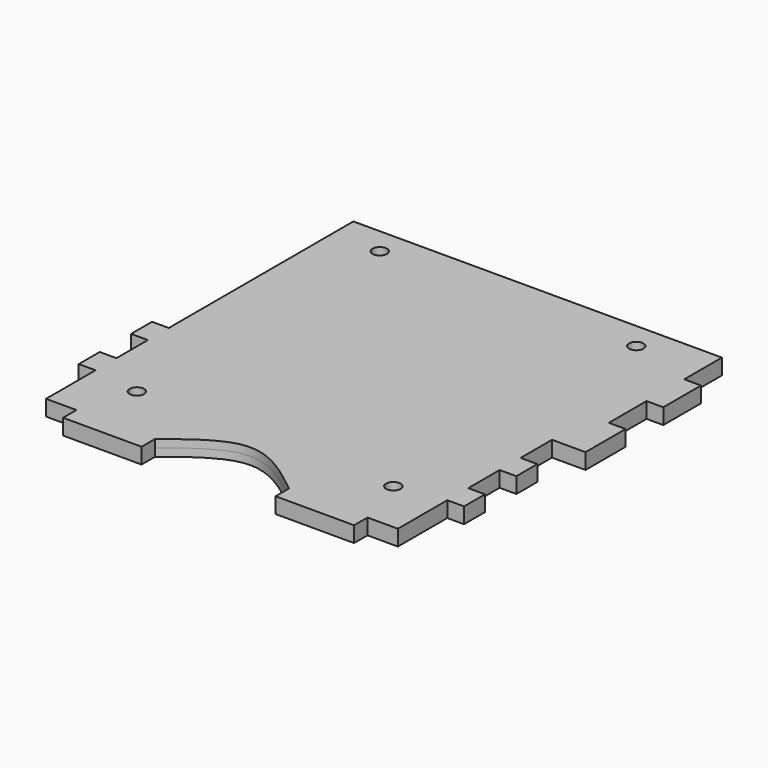
from build123d import *

# Parameters (mm, degrees)
F0_R     = 1.375
F1_DEPTH = 1.5


with BuildPart() as f1:
    # F0 (on Top) → F1 (new body, symmetric)
    with BuildSketch(Plane.XY):
        with BuildLine():
            Line((33.6, 34.073957), (27.8, 34.073957))
            Line((27.8, 34.073957), (-27.8, 34.073957))
            Line((-27.8, 34.073957), (-33.6, 34.073957))
            Line((-33.6, 34.073957), (-33.6, -10))
            Line((-33.6, -10), (-36.8, -10))
            Line((-36.8, -10), (-36.8, -15))
            Line((-36.8, -15), (-33.6, -15))
            Line((-33.6, -15), (-33.6, -22.5))
            Line((-33.6, -22.5), (-36.8, -22.5))
            Line((-36.8, -22.5), (-36.8, -27.5))
            Line((-36.8, -27.5), (-33.6, -27.5))
            Line((-33.6, -27.5), (-33.6, -39.3))
            Line((-33.6, -39.3), (-27.8, -39.3))
            Line((-27.8, -39.3), (-27.8, -42.5))
            Line((-27.8, -42.5), (-12.8, -42.5))
            Line((-12.8, -42.5), (-12.8, -39.3))
            add(Edge.make_bspline(
                [(-12.8, -39.3), (-8.533333, -35.9), (0, -29.1), (8.533333, -35.9), (12.8, -39.3)],
                knots=[0, 0, 0, 0, 14.494137, 28.988273, 28.988273, 28.988273, 28.988273], degree=3))
            Line((12.8, -39.3), (12.8, -42.5))
            Line((12.8, -42.5), (27.8, -42.5))
            Line((27.8, -42.5), (27.8, -39.3))
            Line((27.8, -39.3), (33.6, -39.3))
            Line((33.6, -39.3), (33.6, -27.5))
            Line((33.6, -27.5), (36.8, -27.5))
            Line((36.8, -27.5), (36.8, -22.5))
            Line((36.8, -22.5), (33.6, -22.5))
            Line((33.6, -22.5), (33.6, -15))
            Line((33.6, -15), (36.8, -15))
            Line((36.8, -15), (36.8, -10))
            Line((36.8, -10), (33.6, -10))
            Line((33.6, -10), (33.6, -2.5))
            Line((33.6, -2.5), (36.8, -2.5))
            Line((36.8, -2.5), (40, -2.5))
            Line((40, -2.5), (40, 7.073957))
            Line((40, 7.073957), (36.8, 7.073957))
            Line((36.8, 7.073957), (36.8, 16.073957))
            Line((36.8, 16.073957), (40, 16.073957))
            Line((40, 16.073957), (40, 25.073957))
            Line((40, 25.073957), (36.8, 25.073957))
            Line((36.8, 25.073957), (36.8, 34.073957))
            Line((36.8, 34.073957), (33.6, 34.073957))
        make_face()
        with Locations((-24.5, -29)):
            Circle(F0_R, mode=Mode.SUBTRACT)
        with Locations((24.5, -29)):
            Circle(F0_R, mode=Mode.SUBTRACT)
        with Locations((-24.5, 29)):
            Circle(F0_R, mode=Mode.SUBTRACT)
        with Locations((24.5, 29)):
            Circle(F0_R, mode=Mode.SUBTRACT)
    extrude(amount=F1_DEPTH, both=True)


solid = f1.part
